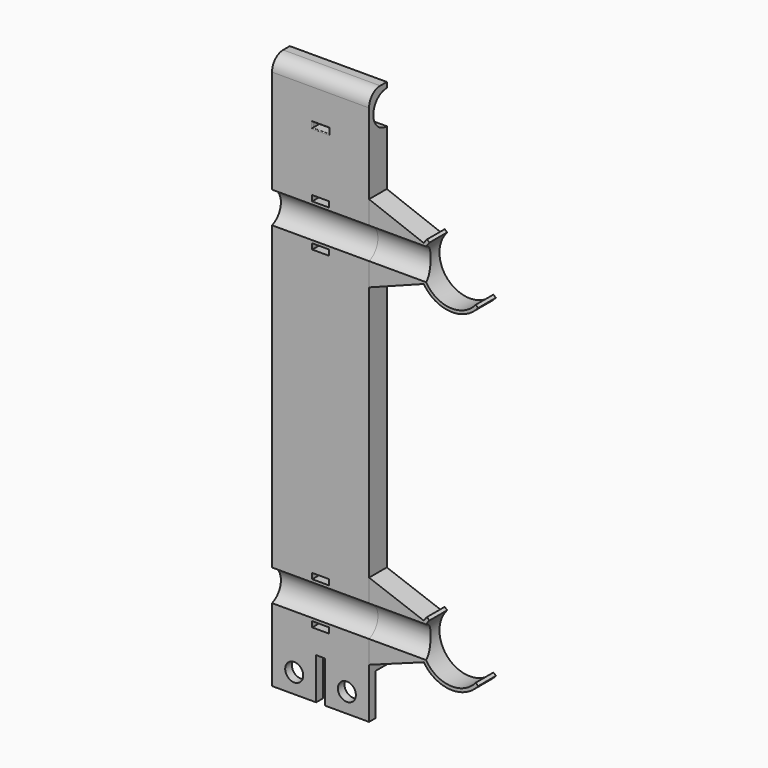
from build123d import *

# Parameters (mm, degrees)
F0_W      = 35
F0_H      = 200
F1_DEPTH  = 8
F2_R      = 6.075
F3_DEPTH  = 45
F4_W      = 6
F4_H      = 2
F6_DEPTH  = 25
F7_R      = 0.3
F8_R      = 3.25
F9_DEPTH  = 25
F10_W     = 35
F10_H     = 15
F10_R     = 3.25
F11_DEPTH = 5
F12_W     = 3.2
F12_H     = 15
F13_DEPTH = 5
F15_DEPTH = 8
F17_DEPTH = 60
F18_W     = 6
F18_H     = 2
F19_DEPTH = 25
F20_R     = 3
F22_DEPTH = 8
F24_DEPTH = 60
F25_W     = 6
F25_H     = 2
F26_DEPTH = 25
F27_R     = 4
F28_R     = 5


with BuildPart() as f1:
    # F0 (on Front) → F1 (new body)
    with BuildSketch(Plane.XZ):
        with Locations((4.1207429767, 45.2379755676)):
            Rectangle(F0_W, F0_H)
    extrude(amount=F1_DEPTH)

    # F2 (on face) → F3 (cut)
    with BuildSketch(Plane(origin=(-13.3792570233, 0, 0), x_dir=(0, -1, 0), z_dir=(-1, 0, 0))):
        with Locations((0, 137.2379755676)):
            Circle(F2_R)
    extrude(amount=-F3_DEPTH, mode=Mode.SUBTRACT)

    # F4 (on face) → F6 (cut)
    with BuildSketch(Plane(origin=(0, 0, 0), x_dir=(-1, 0, 0), z_dir=(0, 1, 0))):
        with Locations((-4.1207429767, 128.1629755676)):
            Rectangle(F4_W, F4_H)
    extrude(amount=-F6_DEPTH, mode=Mode.SUBTRACT)

    # F7
    f7_edges = [f1.edges().sort_by_distance(p)[0] for p in [
        (4.120743, -8, 129.162976),
        (4.120743, -8, 127.162976),
        (7.120743, -8, 128.162976),
        (1.120743, -8, 128.162976),
        (4.120743, 0, 129.162976),
        (7.120743, 0, 128.162976),
        (4.120743, 0, 127.162976),
        (1.120743, 0, 128.162976),
    ]]
    fillet(f7_edges, radius=F7_R)

    # F8 (on face) → F9 (cut)
    with BuildSketch(Plane.XZ.offset(8)):
        with Locations((-5.3792570233, -47.7620244324)):
            Circle(F8_R)
        with Locations((13.6207429767, -47.7620244324)):
            Circle(F8_R)
    extrude(amount=-F9_DEPTH, mode=Mode.SUBTRACT)

    # F10 (on face) → F11 (cut)
    with BuildSketch(Plane(origin=(0, 0, 0), x_dir=(-1, 0, 0), z_dir=(0, 1, 0))):
        with Locations((-4.1207429767, -47.2620244324)):
            Rectangle(F10_W, F10_H)
        with Locations((-13.6207429767, -47.7620244324)):
            Circle(F10_R, mode=Mode.SUBTRACT)
        with Locations((5.3792570233, -47.7620244324)):
            Circle(F10_R, mode=Mode.SUBTRACT)
    extrude(amount=-F11_DEPTH, mode=Mode.SUBTRACT)

    # F12 (on face) → F13 (cut)
    with BuildSketch(Plane(origin=(0, -5, 0), x_dir=(-1, 0, 0), z_dir=(0, 1, 0))):
        with Locations((-4.1207429767, -47.2620244324)):
            Rectangle(F12_W, F12_H)
    extrude(amount=-F13_DEPTH, mode=Mode.SUBTRACT)


with BuildPart() as f15:
    # F14 (on face) → F15 (new body)
    with BuildSketch(Plane.XZ.offset(8)):
        with BuildLine():
            Line((43.3983385859, 104.5449630477), (42.5326327836, 105.2880271371))
            ThreePointArc((42.5326327836, 105.2880271371), (41.9186205584, 104.5363245407), (41.3666180919, 103.7379755676))
            Line((41.3666180919, 103.7379755676), (21.6207429767, 111.2379755676))
            Line((21.6207429767, 111.2379755676), (21.6207429767, 83.2379755676))
            Line((21.6207429767, 83.2379755676), (41.3666180919, 90.7379755676))
            ThreePointArc((41.3666180919, 90.7379755676), (50.8396956104, 85.1224053307), (60.9553951185, 89.4751573587))
            Line((60.9553951185, 89.4751573587), (60.0896893162, 90.2182214481))
            ThreePointArc((60.0896893162, 90.2182214481), (44.4563116002, 88.891064579), (43.3983385859, 104.5449630477))
        make_face()
    extrude(amount=-F15_DEPTH)


with BuildPart() as f17_tool:
    # F16 (on face) → F17 (new body)
    with BuildSketch(Plane(origin=(-13.3792570233, 0, 0), x_dir=(0, -1, 0), z_dir=(-1, 0, 0))):
        with BuildLine():
            Line((8, 91.5811213181), (8, 102.8948298171))
            ThreePointArc((8, 102.8948298171), (4, 97.2379755676), (8, 91.5811213181))
        make_face()
    extrude(amount=-F17_DEPTH)


with BuildPart() as f1_1:
    add(f1.part)

    # F17: cut by f17_tool
    add(f17_tool.part, mode=Mode.SUBTRACT)

    # F18 (on face) → F19 (cut)
    with BuildSketch(Plane.XZ.offset(8)):
        with Locations((4.1207429767, 104.8948298171)):
            Rectangle(F18_W, F18_H)
        with Locations((4.1207429767, 89.5811213181)):
            Rectangle(F18_W, F18_H)
    extrude(amount=-F19_DEPTH, mode=Mode.SUBTRACT)

    # F20
    f20_edges = [f1_1.edges().sort_by_distance(p)[0] for p in [
        (4.120743, 0, 103.89483),
        (4.120743, 0, 90.581121),
    ]]
    fillet(f20_edges, radius=F20_R)


with BuildPart() as f15_1:
    add(f15.part)

    # F17: cut by f17_tool
    add(f17_tool.part, mode=Mode.SUBTRACT)


with BuildPart() as f22:
    # F21 (on face) → F22 (new body)
    with BuildSketch(Plane.XZ.offset(8)):
        with BuildLine():
            Line((43.3983385859, -15.4701377146), (42.4876449259, -14.6884590503))
            ThreePointArc((42.4876449259, -14.6884590503), (41.8989802423, -15.4064176752), (41.3666180919, -16.1670629524))
            Line((41.3666180919, -16.1670629524), (21.6207429767, -8.937722072))
            Line((21.6207429767, -8.937722072), (21.6207429767, -36.6165283173))
            Line((21.6207429767, -36.6165283173), (41.3666180919, -29.387187437))
            ThreePointArc((41.3666180919, -29.387187437), (50.8818100329, -34.9547266869), (61.0003829762, -30.5785579784))
            Line((61.0003829762, -30.5785579784), (60.0896893162, -29.7968793141))
            ThreePointArc((60.0896893162, -29.7968793141), (44.4563116002, -31.1240361833), (43.3983385859, -15.4701377146))
        make_face()
    extrude(amount=-F22_DEPTH)


with BuildPart() as f24_tool:
    # F23 (on face) → F24 (new body)
    with BuildSketch(Plane(origin=(-13.3792570233, 0, 0), x_dir=(0, -1, 0), z_dir=(-1, 0, 0))):
        with BuildLine():
            Line((8, -28.4188786819), (8, -17.1051701829))
            ThreePointArc((8, -17.1051701829), (4, -22.7620244324), (8, -28.4188786819))
        make_face()
    extrude(amount=-F24_DEPTH)


with BuildPart() as f1_2:
    add(f1_1.part)

    # F24: cut by f24_tool
    add(f24_tool.part, mode=Mode.SUBTRACT)

    # F25 (on face) → F26 (cut)
    with BuildSketch(Plane.XZ.offset(8)):
        with Locations((4.1207429767, -15.1051701829)):
            Rectangle(F25_W, F25_H)
        with Locations((4.1207429767, -30.4188786819)):
            Rectangle(F25_W, F25_H)
    extrude(amount=-F26_DEPTH, mode=Mode.SUBTRACT)

    # F27
    f27_edges = [f1_2.edges().sort_by_distance(p)[0] for p in [
        (4.120743, 0, -16.10517),
        (4.120743, 0, -29.418879),
    ]]
    fillet(f27_edges, radius=F27_R)

    # F28
    f28_edges = [f1_2.edges().sort_by_distance(p)[0] for p in [
        (4.120743, -8, 145.237976),
    ]]
    fillet(f28_edges, radius=F28_R)


with BuildPart() as f22_1:
    add(f22.part)

    # F24: cut by f24_tool
    add(f24_tool.part, mode=Mode.SUBTRACT)


solid = Compound([f15_1.part, f1_2.part, f22_1.part])
